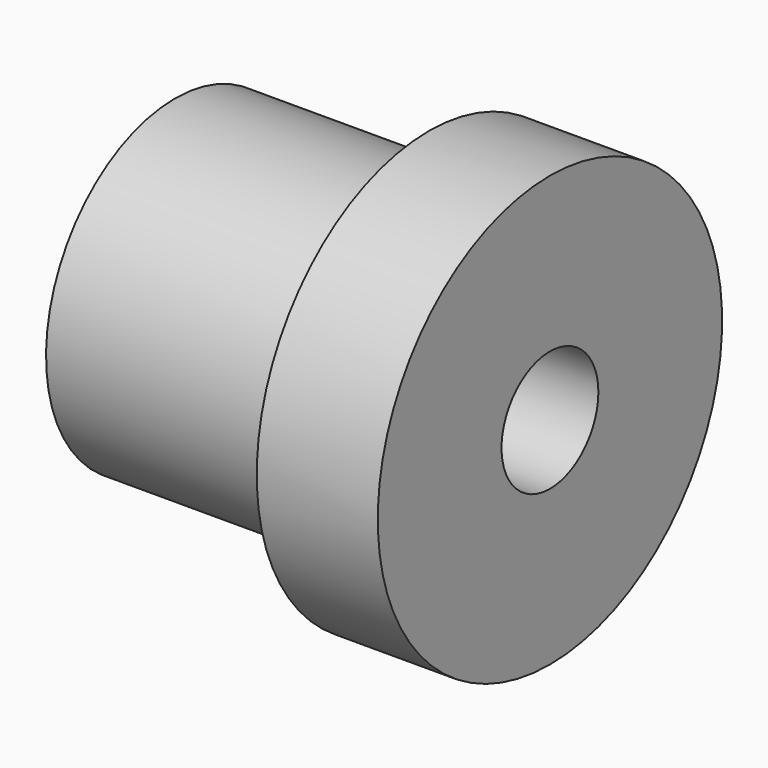
from build123d import *

# Parameters (mm, degrees)
F0_W     = 30.1625
F0_H     = 19.05
F2_R     = 7.14375
F3_DEPTH = 44.238145


with BuildPart() as f1:
    # F0 (on Front) → F1 (revolve)
    with BuildSketch(Plane.XZ):
        with Locations((-4.844986, 9.525)):
            Rectangle(F0_W, F0_H)
        Polygon((10.236264, 19.05), (10.236264, 0), (24.31091, 0), (24.31091, 25.4), (10.02341, 25.4), align=None)
    revolve(axis=Axis((2.192337, 0, 0), (1, 0, 0)))

    # F2 (on face) → F3 (cut, through all)
    with BuildSketch(Plane.YZ.offset(24.31091)):
        Circle(F2_R)
    extrude(amount=-F3_DEPTH, mode=Mode.SUBTRACT)


solid = f1.part
